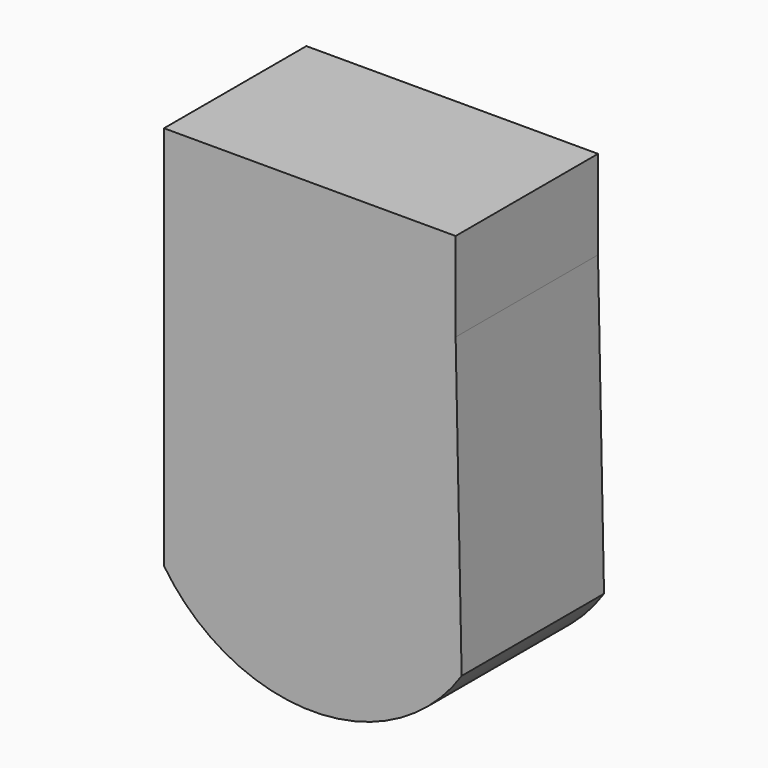
from build123d import *

# Parameters (mm, degrees)
F1_DEPTH  = 50.8
F1_FACE_W = 83.256234
F1_FACE_H = 50.8
F2_DEPTH  = 25.4


with BuildPart() as f1:
    # F0 (on Front) → F1 (new body)
    with BuildSketch(Plane.XZ):
        with BuildLine():
            Line((34.085408, 34.085408), (-49.170826, 34.085408))
            Line((-49.170826, 34.085408), (-49.170826, -50.507508))
            ThreePointArc((-49.170826, -50.507508), (-6.683413, -73.269129), (35.804, -50.507508))
            Line((35.804, -50.507508), (34.085408, 34.085408))
        make_face()
    extrude(amount=F1_DEPTH)

    # F1_face (on face) → F2 (join)
    with BuildSketch(Plane(origin=(-7.542709, -25.4, 34.085408), x_dir=(1, 0, 0), z_dir=(0, 0, 1))):
        Rectangle(F1_FACE_W, F1_FACE_H)
    extrude(amount=F2_DEPTH)


solid = f1.part
